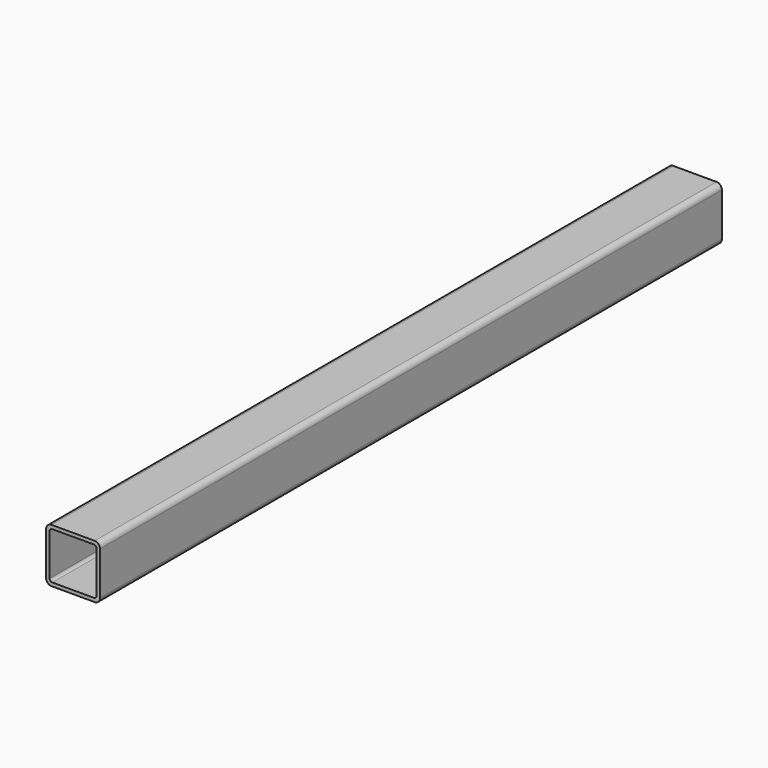
from build123d import *

# Parameters (mm, degrees)
F0_W     = 40
F0_H     = 40
F0_W_2   = 34.8
F0_H_2   = 34.8
F1_DEPTH = 576
F2_R     = 4
F3_R     = 2


with BuildPart() as f1:
    # F0 (on Front) → F1 (new body)
    with BuildSketch(Plane.XZ):
        Rectangle(F0_W, F0_H)
        Rectangle(F0_W_2, F0_H_2, mode=Mode.SUBTRACT)
    extrude(amount=F1_DEPTH)

    # F2
    f2_edges = [f1.edges().sort_by_distance(p)[0] for p in [
        (20, -288, 20),
        (-20, -288, 20),
        (20, -288, -20),
        (-20, -288, -20),
    ]]
    fillet(f2_edges, radius=F2_R)

    # F3
    f3_edges = [f1.edges().sort_by_distance(p)[0] for p in [
        (-17.4, -288, 17.4),
        (-17.4, -288, -17.4),
        (17.4, -288, -17.4),
        (17.4, -288, 17.4),
    ]]
    fillet(f3_edges, radius=F3_R)


solid = f1.part
